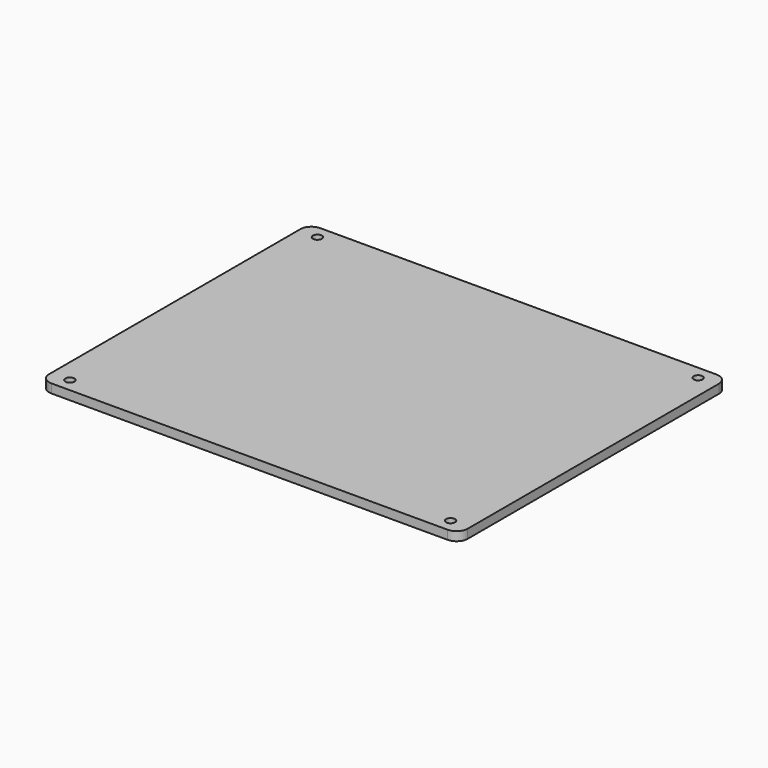
from build123d import *

# Parameters (mm, degrees)
F0_R     = 2
F1_DEPTH = 2
F3_DEPTH = 2
F4_DEPTH = 2.001


with BuildPart() as f1:
    # F0 (on Top) → F1 (new body)
    with BuildSketch(Plane.XY):
        with BuildLine():
            ThreePointArc((94, 70.5), (92.5355339059, 74.0355339059), (89, 75.5))
            Line((89, 75.5), (-89, 75.5))
            ThreePointArc((-89, 75.5), (-92.5355339059, 74.0355339059), (-94, 70.5))
            Line((-94, 70.5), (-94, -70.5))
            ThreePointArc((-94, -70.5), (-92.5355339059, -74.0355339059), (-89, -75.5))
            Line((-89, -75.5), (89, -75.5))
            ThreePointArc((89, -75.5), (92.5355339059, -74.0355339059), (94, -70.5))
            Line((94, -70.5), (94, 70.5))
        make_face()
        with Locations((-85.5, -69.5)):
            Circle(F0_R, mode=Mode.SUBTRACT)
        with Locations((85.5, -69.5)):
            Circle(F0_R, mode=Mode.SUBTRACT)
        with Locations((-85.5, 69.5)):
            Circle(F0_R, mode=Mode.SUBTRACT)
        with Locations((85.5, 69.5)):
            Circle(F0_R, mode=Mode.SUBTRACT)
    extrude(amount=F1_DEPTH)

    # F2 (on face) + F0 (on Top) → F3 (join)
    with BuildSketch(Plane.XY.offset(2)):
        with BuildLine():
            ThreePointArc((94, 70.5), (92.5355339059, 74.0355339059), (89, 75.5))
            Line((89, 75.5), (-89, 75.5))
            ThreePointArc((-89, 75.5), (-92.5355339059, 74.0355339059), (-94, 70.5))
            Line((-94, 70.5), (-94, -70.5))
            ThreePointArc((-94, -70.5), (-92.5355339059, -74.0355339059), (-89, -75.5))
            Line((-89, -75.5), (89, -75.5))
            ThreePointArc((89, -75.5), (92.5355339059, -74.0355339059), (94, -70.5))
            Line((94, -70.5), (94, 70.5))
        make_face()
    with BuildSketch(Plane.XY):
        with BuildLine():
            ThreePointArc((94, 70.5), (92.5355339059, 74.0355339059), (89, 75.5))
            Line((89, 75.5), (-89, 75.5))
            ThreePointArc((-89, 75.5), (-92.5355339059, 74.0355339059), (-94, 70.5))
            Line((-94, 70.5), (-94, -70.5))
            ThreePointArc((-94, -70.5), (-92.5355339059, -74.0355339059), (-89, -75.5))
            Line((-89, -75.5), (89, -75.5))
            ThreePointArc((89, -75.5), (92.5355339059, -74.0355339059), (94, -70.5))
            Line((94, -70.5), (94, 70.5))
        make_face()
        with Locations((-85.5, -69.5)):
            Circle(F0_R, mode=Mode.SUBTRACT)
        with Locations((85.5, -69.5)):
            Circle(F0_R, mode=Mode.SUBTRACT)
        with Locations((-85.5, 69.5)):
            Circle(F0_R, mode=Mode.SUBTRACT)
        with Locations((85.5, 69.5)):
            Circle(F0_R, mode=Mode.SUBTRACT)
    extrude(amount=F3_DEPTH)

    # F4 (cut, through all): faces of the model
    f4_faces = [f1.faces().sort_by_distance(p)[0] for p in [
        (85.5, 69.5, 2),
        (-85.5, 69.5, 2),
        (85.5, -69.5, 2),
        (-85.5, -69.5, 2),
        (85.5, 69.5, 2),
        (-85.5, 69.5, 2),
        (85.5, -69.5, 2),
        (-85.5, -69.5, 2),
        (85.5, 69.5, 2),
        (-85.5, 69.5, 2),
        (85.5, -69.5, 2),
        (-85.5, -69.5, 2),
        (85.5, 69.5, 2),
        (-85.5, 69.5, 2),
        (85.5, -69.5, 2),
        (-85.5, -69.5, 2),
    ]]
    extrude(f4_faces, amount=-F4_DEPTH, mode=Mode.SUBTRACT)


solid = f1.part
